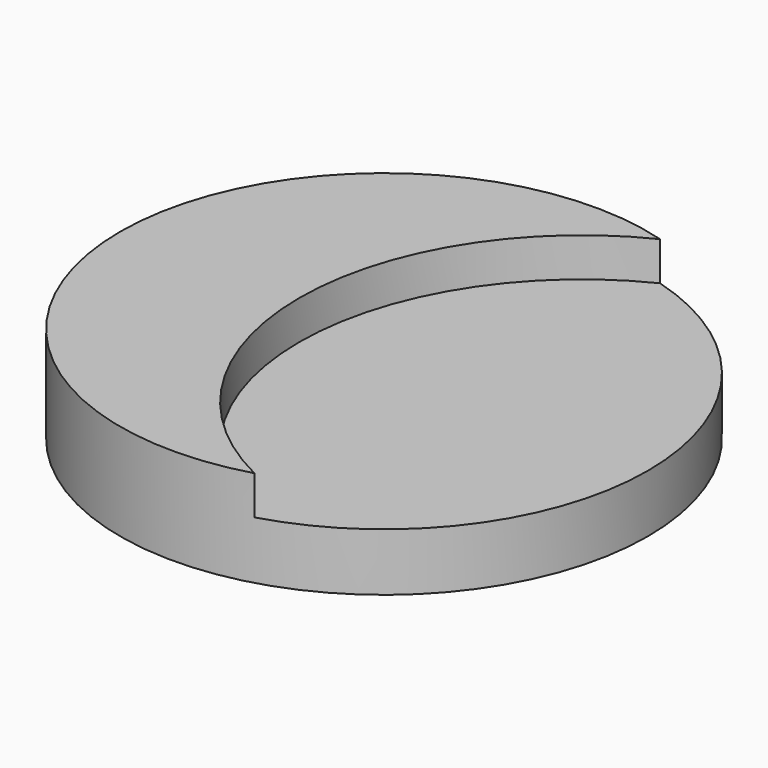
from build123d import *

# Parameters (mm, degrees)
F0_R     = 61.825304
F1_DEPTH = 22.629371
F2_R     = 66.173096
F3_DEPTH = 9.099766


with BuildPart() as f1:
    # F0 (on Top) → F1 (new body)
    with BuildSketch(Plane.XY):
        Circle(F0_R)
    extrude(amount=F1_DEPTH)

    # F2 (on face) → F3 (cut)
    with BuildSketch(Plane.XY.offset(22.629371)):
        with BuildLine():
            ThreePointArc((61.825304, 0), (49.415428, 37.154861), (17.167741, 59.393913))
            ThreePointArc((17.167741, 59.393913), (-19.829308, 0), (17.167741, -59.393913))
            ThreePointArc((17.167741, -59.393913), (49.415428, -37.154861), (61.825304, 0))
        make_face()
        with Locations((46.343789, 0)):
            Circle(F2_R)
    extrude(amount=-F3_DEPTH, mode=Mode.SUBTRACT)


solid = f1.part
